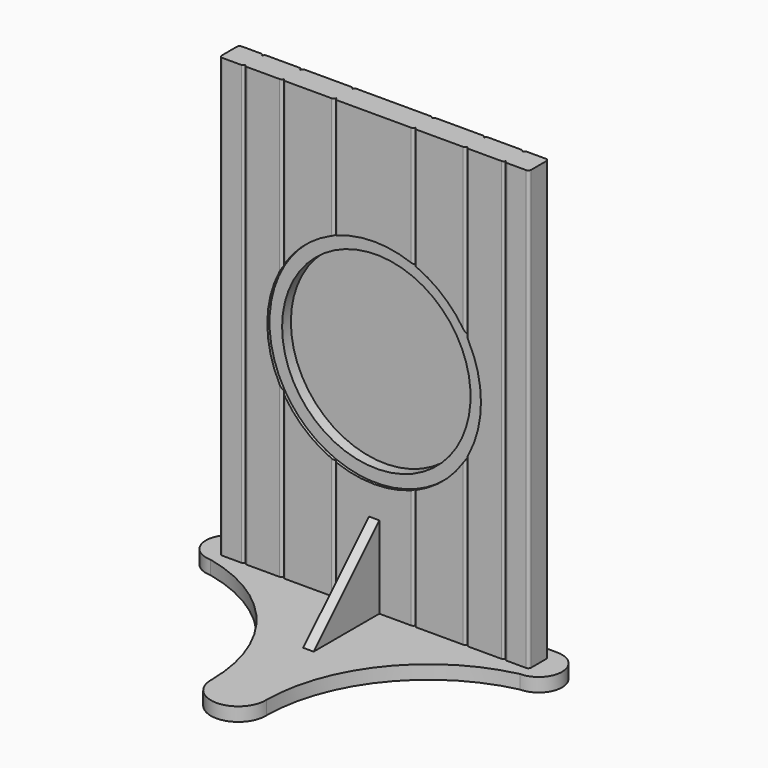
from build123d import *

# Parameters (mm, degrees)
F1_DEPTH  = 800
F3_DEPTH  = 10
F5_DEPTH  = 800
F7_DEPTH  = 800
F11_DEPTH = 800
F22_R     = 172
F23_DEPTH = 405.001
F24_R     = 212
F25_DEPTH = 20
F26_R     = 195
F27_DEPTH = 5
F28_R     = 210
F29_DEPTH = 20
F31_DEPTH = 25
F39_DEPTH = 9.5


with BuildPart() as f1:
    # F0 (on Top) → F1 (new body)
    with BuildSketch(Plane.XY):
        with BuildLine():
            Line((-67.5, -22.5), (67.5, -22.5))
            ThreePointArc((67.5, -22.5), (71.0355339059, -21.0355339059), (72.5, -17.5))
            Line((72.5, -17.5), (72.5, 17.5))
            ThreePointArc((72.5, 17.5), (71.0355339059, 21.0355339059), (67.5, 22.5))
            Line((67.5, 22.5), (-67.5, 22.5))
            ThreePointArc((-67.5, 22.5), (-71.0355339059, 21.0355339059), (-72.5, 17.5))
            Line((-72.5, 17.5), (-72.5, -17.5))
            ThreePointArc((-72.5, -17.5), (-71.0355339059, -21.0355339059), (-67.5, -22.5))
        make_face()
    extrude(amount=F1_DEPTH)


with BuildPart() as f3:
    # F2 (on face) → F3 (new body)
    with BuildSketch(Plane(origin=(-72.5, 0, 0), x_dir=(0, -1, 0), z_dir=(-1, 0, 0))):
        with BuildLine():
            Line((-17.5, 500), (-17.5, 0))
            Line((-17.5, 0), (382.5, 0))
            Line((382.5, 0), (382.5, 50))
            ThreePointArc((382.5, 50), (117.9385943606, 208.4390820925), (17.5, 500))
            Line((17.5, 500), (-17.5, 500))
        make_face()
    extrude(amount=F3_DEPTH)


with BuildPart() as f5:
    # F4 (on Top) → F5 (new body)
    with BuildSketch(Plane.XY):
        with BuildLine():
            Line((-42.5, -22.5), (42.5, -22.5))
            ThreePointArc((42.5, -22.5), (46.0355339059, -21.0355339059), (47.5, -17.5))
            Line((47.5, -17.5), (47.5, 17.5))
            ThreePointArc((47.5, 17.5), (46.0355339059, 21.0355339059), (42.5, 22.5))
            Line((42.5, 22.5), (-42.5, 22.5))
            ThreePointArc((-42.5, 22.5), (-46.0355339059, 21.0355339059), (-47.5, 17.5))
            Line((-47.5, 17.5), (-47.5, -17.5))
            ThreePointArc((-47.5, -17.5), (-46.0355339059, -21.0355339059), (-42.5, -22.5))
        make_face()
    extrude(amount=F5_DEPTH)


with BuildPart() as f7:
    # F6 (on Top) → F7 (new body)
    with BuildSketch(Plane.XY):
        with BuildLine():
            Line((-17.5, -22.5), (17.5, -22.5))
            ThreePointArc((17.5, -22.5), (21.0355339059, -21.0355339059), (22.5, -17.5))
            Line((22.5, -17.5), (22.5, 17.5))
            ThreePointArc((22.5, 17.5), (21.0355339059, 21.0355339059), (17.5, 22.5))
            Line((17.5, 22.5), (-17.5, 22.5))
            ThreePointArc((-17.5, 22.5), (-21.0355339059, 21.0355339059), (-22.5, 17.5))
            Line((-22.5, 17.5), (-22.5, -17.5))
            ThreePointArc((-22.5, -17.5), (-21.0355339059, -21.0355339059), (-17.5, -22.5))
        make_face()
    extrude(amount=F7_DEPTH)


with BuildPart() as f5_1:
    # F8: moved
    add(f5.part.moved(Location((-120, 0, 0))))


with BuildPart() as f7_1:
    # F9: moved
    add(f7.part.moved(Location((-260, 0, 0))))


with BuildPart() as f11:
    # F10 (on Top) → F11 (new body)
    with BuildSketch(Plane.XY):
        with BuildLine():
            Line((-30, -22.5), (30, -22.5))
            ThreePointArc((30, -22.5), (33.5355339059, -21.0355339059), (35, -17.5))
            Line((35, -17.5), (35, 17.5))
            ThreePointArc((35, 17.5), (33.5355339059, 21.0355339059), (30, 22.5))
            Line((30, 22.5), (-30, 22.5))
            ThreePointArc((-30, 22.5), (-33.5355339059, 21.0355339059), (-35, 17.5))
            Line((-35, 17.5), (-35, -17.5))
            ThreePointArc((-35, -17.5), (-33.5355339059, -21.0355339059), (-30, -22.5))
        make_face()
    extrude(amount=F11_DEPTH)


with BuildPart() as f11_1:
    # F12: moved
    add(f11.part.moved(Location((-202.5, 0, 0))))


with BuildPart() as f13_1:
    # F13: copy of F5
    add(f5_1.part)


with BuildPart() as f13_1_1:
    # F14: moved
    add(f13_1.part.moved(Location((240, 0, 0))))


with BuildPart() as f15_1:
    # F15: copy of F11
    add(f11_1.part)


with BuildPart() as f15_1_1:
    # F16: moved
    add(f15_1.part.moved(Location((405, 0, 0))))


with BuildPart() as f17_1:
    # F17: copy of F7
    add(f7_1.part)


with BuildPart() as f17_1_1:
    # F18: moved
    add(f17_1.part.moved(Location((520, 0, 0))))


with BuildPart() as f7_2:
    add(f7_1.part)

    # F19: union F11, F5, F1, F13_1, F15_1, F17_1
    add(f11_1.part)
    add(f5_1.part)
    add(f1.part)
    add(f13_1_1.part)
    add(f15_1_1.part)
    add(f17_1_1.part)

    # F22 (on face) → F23 (cut, through all)
    with BuildSketch(Plane(origin=(0, 22.5, 0), x_dir=(-1, 0, 0), z_dir=(0, 1, 0))):
        with Locations((0, 400)):
            Circle(F22_R)
    extrude(amount=-F23_DEPTH, mode=Mode.SUBTRACT)

    # F24 (on face) → F25 (cut)
    with BuildSketch(Plane(origin=(0, 22.5, 0), x_dir=(-1, 0, 0), z_dir=(0, 1, 0))):
        with Locations((0, 400)):
            Circle(F24_R)
    extrude(amount=-F25_DEPTH, mode=Mode.SUBTRACT)

    # F26 (on face) → F27 (cut)
    with BuildSketch(Plane.XZ.offset(22.5)):
        with Locations((0, 400)):
            Circle(F26_R)
    extrude(amount=-F27_DEPTH, mode=Mode.SUBTRACT)


with BuildPart() as f20_1:
    # F20: copy of F3
    add(f3.part.moved(Location((-210, 0, 0))))


with BuildPart() as f3_1:
    # F21: moved
    add(f3.part.moved(Location((-360, 0, 0))))


with BuildPart() as f29:
    # F28 (on face) → F29 (new body)
    with BuildSketch(Plane(origin=(0, 2.5, 0), x_dir=(-1, 0, 0), z_dir=(0, 1, 0))):
        with Locations((0, 400)):
            Circle(F28_R)
    extrude(amount=F29_DEPTH)


with BuildPart() as f31:
    # F30 (on face) → F31 (new body)
    with BuildSketch(Plane(origin=(0, 0, 0), x_dir=(1, 0, 0), z_dir=(0, 0, -1))):
        with BuildLine():
            ThreePointArc((-282.5, 42.5), (-325, 0), (-282.5, -42.5))
            Line((-282.5, -42.5), (282.5, -42.5))
            ThreePointArc((282.5, -42.5), (325, 0), (282.5, 42.5))
            ThreePointArc((282.5, 42.5), (115.8017161936, 145.9839237385), (49.9722854752, 330.818245085))
            ThreePointArc((49.9722854752, 330.818245085), (0, 382.4827823722), (-49.9722854752, 330.818245085))
            ThreePointArc((-49.9722854752, 330.818245085), (-115.8017161936, 145.9839237385), (-282.5, 42.5))
        make_face()
    extrude(amount=F31_DEPTH)

    # F38 (on Right) → F39 (join, symmetric)
    with BuildSketch(Plane.YZ):
        Polygon((-22.5, 150), (-172.5, 0), (-22.5, 0), align=None)
    extrude(amount=F39_DEPTH, both=True)


with BuildPart() as f33:
    # F32 (on face) → F33 (revolve)
    with BuildSketch(Plane(origin=(0, 22.5, 0), x_dir=(-1, 0, 0), z_dir=(0, 1, 0))):
        Polygon((-282.5, -40), (-282.5, -25), (-292.5, -25), align=None)
    revolve(axis=Axis((282.5, 22.5, -32.5), (0, 0, 1)))


with BuildPart() as f35:
    # F34 (on face) → F35 (revolve)
    with BuildSketch(Plane(origin=(0, 22.5, 0), x_dir=(-1, 0, 0), z_dir=(0, 1, 0))):
        Polygon((292.5, -25), (282.5, -25), (282.5, -40), align=None)
    revolve(axis=Axis((-282.5, 22.5, -32.5), (0, 0, 1)))


solid = Compound([f7_2.part, f29.part, f31.part, f33.part, f35.part])
